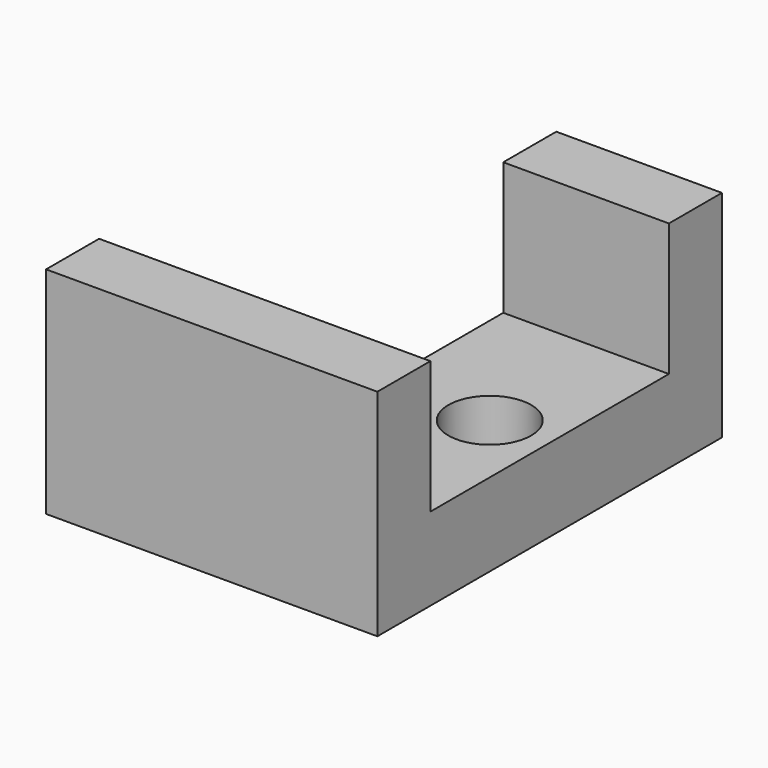
from build123d import *

# Parameters (mm, degrees)
F0_R     = 12.5
F1_DEPTH = 25
F2_W     = 100
F2_H     = 20
F2_W_2   = 50
F3_DEPTH = 40


with BuildPart() as f1:
    # F0 (on Top) → F1 (new body)
    with BuildSketch(Plane.XY):
        Polygon((-46.945058, -65.1706), (53.054942, -65.1706), (53.054942, 4.8294), (53.054942, 64.8294), (3.054942, 64.8294), (3.054942, 4.8294), (-46.945058, 4.8294), align=None)
        with Locations((-19.190943, -13.653258)):
            Circle(F0_R, mode=Mode.SUBTRACT)
        with Locations((34.849223, 0)):
            Circle(F0_R, mode=Mode.SUBTRACT)
    extrude(amount=F1_DEPTH)

    # F2 (on face) → F3 (join)
    with BuildSketch(Plane.XY.offset(25)):
        with Locations((3.054942, -55.1706)):
            Rectangle(F2_W, F2_H)
        with Locations((28.054942, 54.8294)):
            Rectangle(F2_W_2, F2_H)
    extrude(amount=F3_DEPTH)


solid = f1.part
